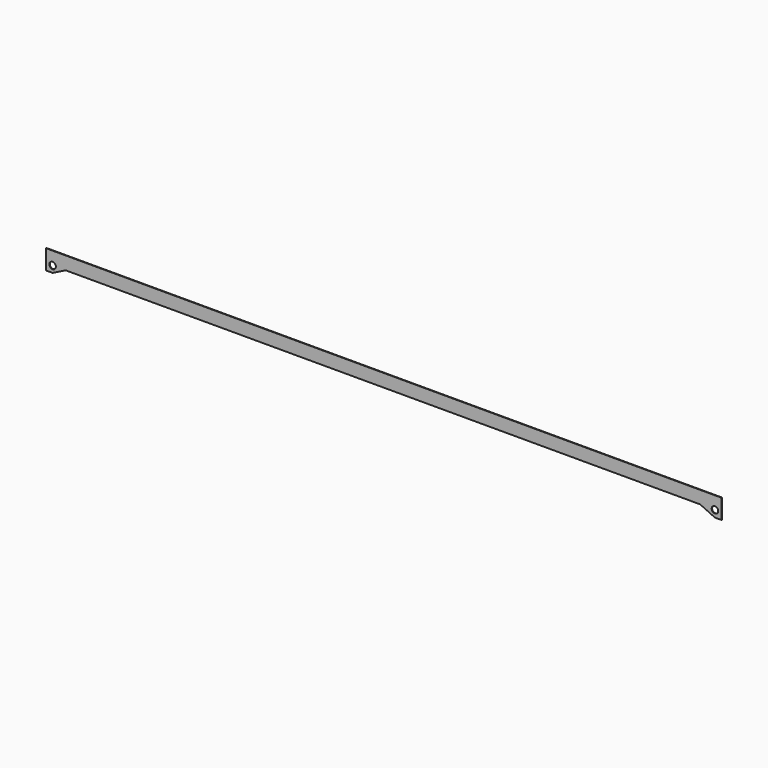
from build123d import *

# Parameters (mm, degrees)
F1_DEPTH = 5
F3_D     = 60


with BuildPart() as f1:
    # F0 (on Front) → F1 (new body)
    with BuildSketch(Plane.XZ):
        Polygon((0, -180), (0, 0), (-6200, 0), (-6200, -180), (-6140, -180), (-6020, -120), (-196.797047, -117.310032), (-60, -180), align=None)
    extrude(amount=F1_DEPTH)

    # F3 (through all)
    with Locations(Plane.XZ.offset(5)):
        with Locations((-60.028959, -117.310032), (-6140, -120)):
            Hole(F3_D / 2)


solid = f1.part
